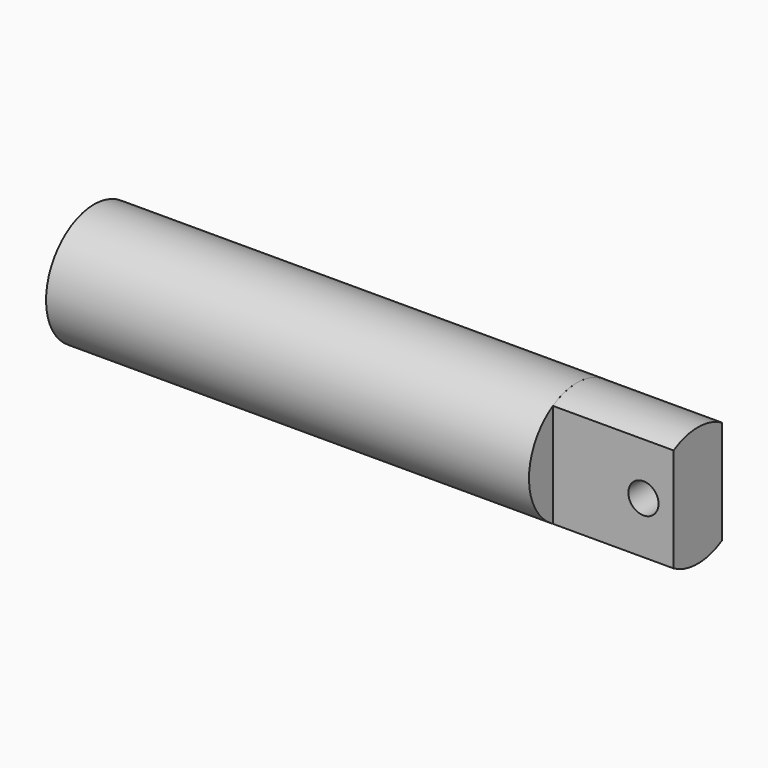
from build123d import *

# Parameters (mm, degrees)
F0_W     = 101.6
F0_H     = 12.6365
F5_DEPTH = 25.4
F7_D     = 6.35


with BuildPart() as f1:
    # F0 (on Front) → F1 (revolve)
    with BuildSketch(Plane.XZ):
        with Locations((50.8, 6.31825)):
            Rectangle(F0_W, F0_H)
    revolve(axis=Axis((117.01182, 0, 0), (1, 0, 0)))

    # F2 (on Front) → F3 (revolve, cut)
    with BuildSketch(Plane.XZ):
        with BuildLine():
            Line((0, 0), (6.35, 0))
            ThreePointArc((6.35, 0), (4.648523, 6.35), (0, 10.998523))
            Line((0, 10.998523), (0, 0))
        make_face()
    revolve(axis=Axis((3.175, 0, 0), (1, 0, 0)), mode=Mode.SUBTRACT)


with BuildPart() as f5:
    # F4 (on face) → F5 (new body)
    with BuildSketch(Plane.YZ.offset(101.6)):
        with BuildLine():
            ThreePointArc((6.35, 10.925138), (0, 12.6365), (-6.35, 10.925138))
            Line((-6.35, 10.925138), (-6.35, -10.925138))
            ThreePointArc((-6.35, -10.925138), (0, -12.6365), (6.35, -10.925138))
            Line((6.35, -10.925138), (6.35, 10.925138))
        make_face()
    extrude(amount=F5_DEPTH)

    # F7 (through all)
    with Locations(Plane.XZ.offset(6.35)):
        with Locations((120.65, 0)):
            Hole(F7_D / 2)


solid = Compound([f1.part, f5.part])
